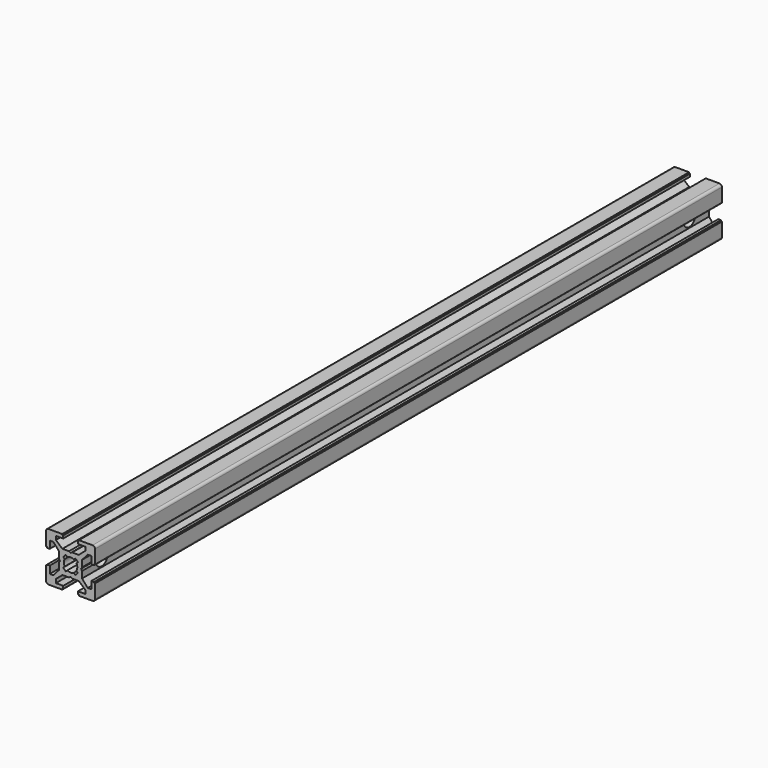
from build123d import *

# Parameters (mm, degrees)
PAD_DEPTH          = 320
POCKET_DEPTH       = 320
POLARPATTERN_COUNT = 4
POCKET001_DEPTH    = 320
SKETCH003_R        = 3
POCKET002_DEPTH    = 20
SKETCH004_R        = 5
POCKET003_DEPTH    = 3


with BuildPart() as part:
    # Sketch → Pad (new body)
    with BuildSketch(Plane.XZ):
        with BuildLine():
            Line((-9, 10), (9, 10))
            ThreePointArc((10, 9), (9.707107, 9.707107), (9, 10))
            Line((10, 9), (10, -9))
            ThreePointArc((9, -10), (9.707107, -9.707107), (10, -9))
            Line((9, -10), (-9, -10))
            ThreePointArc((-10, -9), (-9.707107, -9.707107), (-9, -10))
            Line((-10, -9), (-10, 9))
            ThreePointArc((-9, 10), (-9.707107, 9.707107), (-10, 9))
        make_face()
    extrude(amount=PAD_DEPTH)

    # Sketch001 (on Face10 of Pad) → Pocket (cut)
    with BuildSketch(Plane.XZ.offset(320)):
        Polygon((-3.4, 10), (-3.4, 9.6), (-3, 9.6), (-3, 8.5), (-6, 8.5), (-6, 7), (-3.35, 4.7), (-0.65, 4.7), (0, 4.3), (0.65, 4.7), (3.35, 4.7), (6, 7), (6, 8.5), (3, 8.5), (3, 9.6), (3.4, 9.6), (3.4, 10), align=None)
    pocket = extrude(amount=-POCKET_DEPTH, mode=Mode.SUBTRACT)

    # PolarPattern: Pocket ×4 about axis
    polarpattern_axis = Axis((0, -320, 0), (0, -1, 0))
    for i in range(1, POLARPATTERN_COUNT):
        add(pocket.rotate(polarpattern_axis, i * 360 / POLARPATTERN_COUNT), mode=Mode.SUBTRACT)

    # Sketch002 (on Face4 of PolarPattern) → Pocket001 (cut)
    with BuildSketch(Plane.XZ.offset(320)):
        with BuildLine():
            ThreePointArc((1.340499, 2.401159), (0, 2.75), (-1.340499, 2.401159))
            Line((-1.944544, 3.005204), (-1.340499, 2.401159))
            Line((-3.005204, 1.944544), (-1.944544, 3.005204))
            Line((-2.401159, 1.340499), (-3.005204, 1.944544))
            ThreePointArc((-2.401159, 1.340499), (-2.75, 0), (-2.401159, -1.340499))
            Line((-3.005204, -1.944544), (-2.401159, -1.340499))
            Line((-1.944544, -3.005204), (-3.005204, -1.944544))
            Line((-1.340499, -2.401159), (-1.944544, -3.005204))
            ThreePointArc((-1.340499, -2.401159), (0, -2.75), (1.340499, -2.401159))
            Line((1.944544, -3.005204), (1.340499, -2.401159))
            Line((3.005204, -1.944544), (1.944544, -3.005204))
            Line((2.401159, -1.340499), (3.005204, -1.944544))
            ThreePointArc((2.401159, -1.340499), (2.75, 0), (2.401159, 1.340499))
            Line((2.401159, 1.340499), (3.005204, 1.944544))
            Line((3.005204, 1.944544), (1.944544, 3.005204))
            Line((1.944544, 3.005204), (1.340499, 2.401159))
        make_face()
    extrude(amount=-POCKET001_DEPTH, mode=Mode.SUBTRACT)

    # Sketch003 (on Face44 of Pocket001) → Pocket002 (cut)
    with BuildSketch(Plane(origin=(10, 0, 0), x_dir=(0, 0, 1), z_dir=(1, 0, 0))):
        with Locations((0, 10)):
            Circle(SKETCH003_R)
        with Locations((0, 310)):
            Circle(SKETCH003_R)
    extrude(amount=-POCKET002_DEPTH, mode=Mode.SUBTRACT)

    # Sketch004 (on Face37 of Pocket002) → Pocket003 (cut)
    with BuildSketch(Plane(origin=(-10, 0, 0), x_dir=(0, 0, -1), z_dir=(-1, 0, 0))):
        with Locations((0, 10)):
            Circle(SKETCH004_R)
        with Locations((0, 310)):
            Circle(SKETCH004_R)
    extrude(amount=-POCKET003_DEPTH, mode=Mode.SUBTRACT)


solid = part.part
